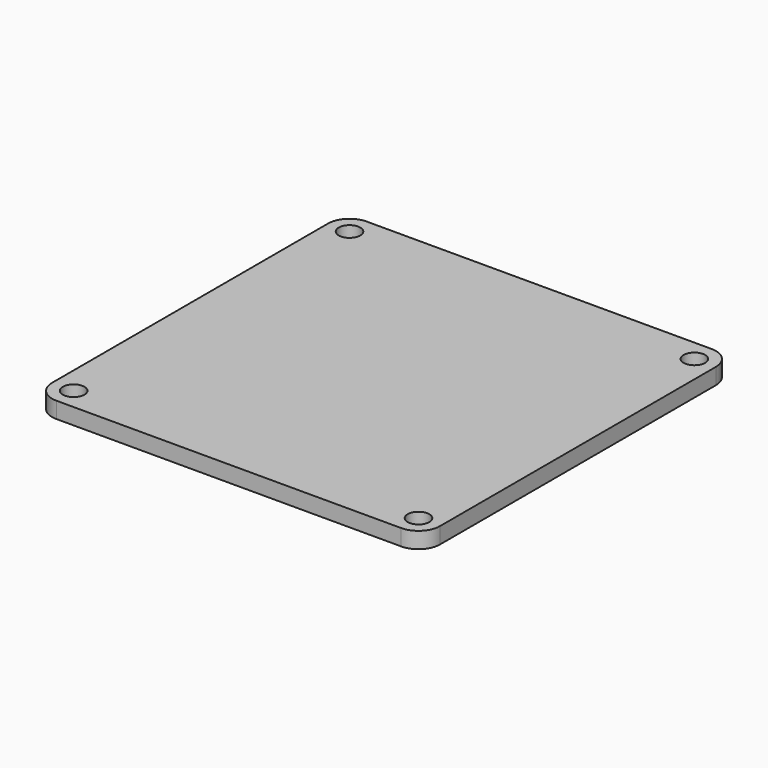
from build123d import *

# Parameters (mm, degrees)
F0_W     = 457.2
F0_H     = 457.2
F1_DEPTH = 19.05
F2_R     = 25.4
F3_R     = 12.7
F4_DEPTH = 19.05


with BuildPart() as f1:
    # F0 (on Top) → F1 (new body)
    with BuildSketch(Plane.XY):
        Rectangle(F0_W, F0_H)
    extrude(amount=F1_DEPTH)

    # F2
    f2_edges = [f1.edges().sort_by_distance(p)[0] for p in [
        (228.6, -228.6, 9.525),
        (228.6, 228.6, 9.525),
        (-228.6, -228.6, 9.525),
        (-228.6, 228.6, 9.525),
    ]]
    fillet(f2_edges, radius=F2_R)

    # F3 (on face) → F4 (cut, through all)
    with BuildSketch(Plane.XY.offset(19.05)):
        with Locations((-203.2, 203.2)):
            Circle(F3_R)
        with Locations((203.2, 203.2)):
            Circle(F3_R)
        with Locations((203.2, -203.2)):
            Circle(F3_R)
        with Locations((-203.2, -203.2)):
            Circle(F3_R)
    extrude(amount=-F4_DEPTH, mode=Mode.SUBTRACT)


solid = f1.part
